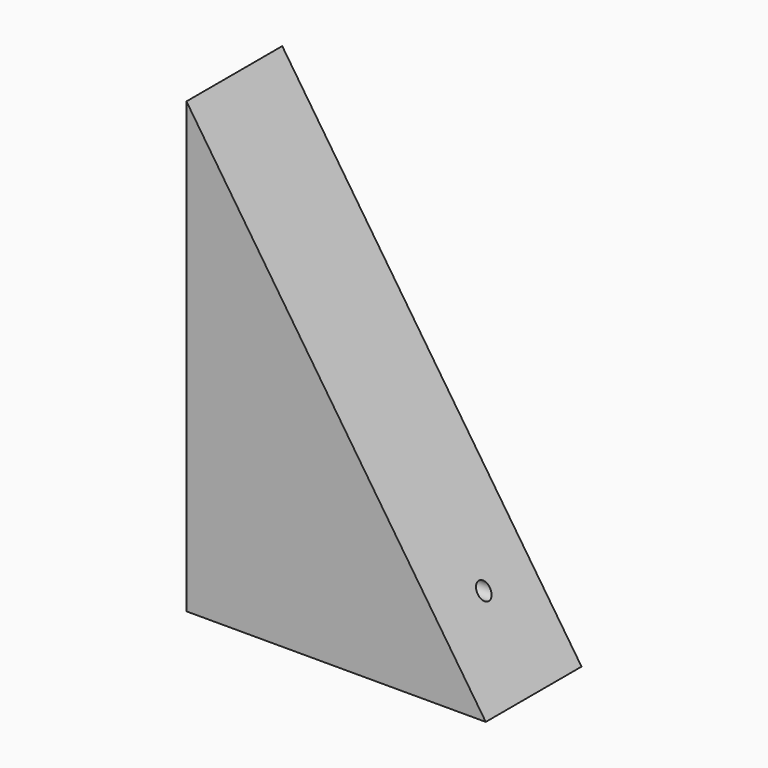
from build123d import *

# Parameters (mm, degrees)
F1_DEPTH = 40
F2_R     = 2.5
F3_DEPTH = 100.001
F4_R     = 1.5
F5_DEPTH = 20


with BuildPart() as f1:
    # F0 (on Front) → F1 (new body)
    with BuildSketch(Plane.XZ):
        with BuildLine():
            Line((0, 150), (0, 0))
            Line((0, 0), (100, 0))
            add(Edge.make_bspline(
                [(0, 150), (33.333333, 100), (66.666667, 50), (100, 0)],
                knots=[0, 0, 0, 0, 180.277564, 180.277564, 180.277564, 180.277564], degree=3))
        make_face()
    extrude(amount=F1_DEPTH)

    # F2 (on face) → F3 (cut, through all)
    with BuildSketch(Plane(origin=(0, 0, 0), x_dir=(0, -1, 0), z_dir=(-1, 0, 0))):
        with Locations((20, 25)):
            Circle(F2_R)
    extrude(amount=-F3_DEPTH, mode=Mode.SUBTRACT)

    # F4 (on face) → F5 (cut)
    with BuildSketch(Plane(origin=(0, 0, 0), x_dir=(0, -1, 0), z_dir=(-1, 0, 0))):
        with Locations((20, 57)):
            Circle(F4_R)
        with Locations((20, 44)):
            Circle(F4_R)
    extrude(amount=-F5_DEPTH, mode=Mode.SUBTRACT)


solid = f1.part
